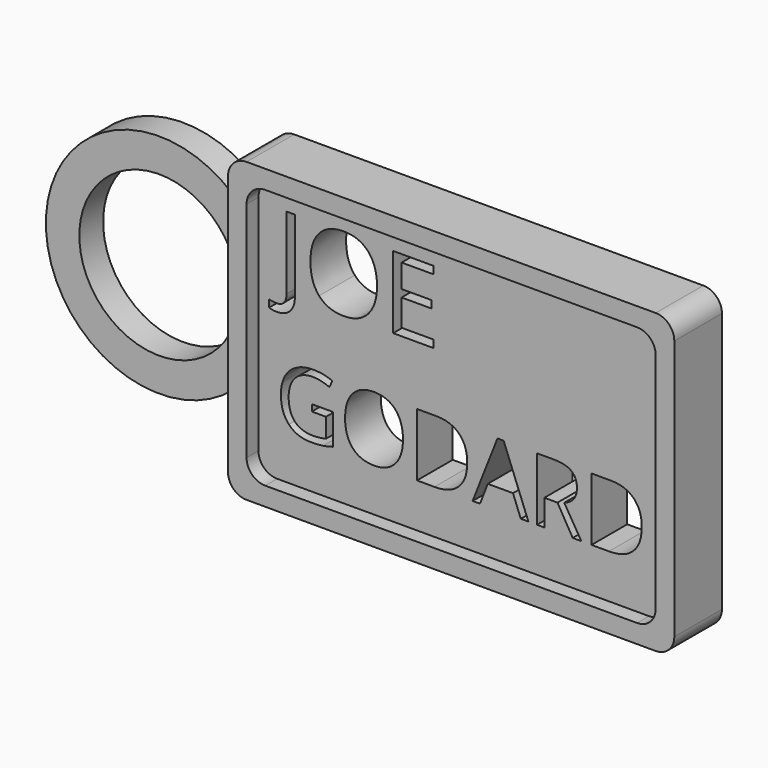
from build123d import *

# Parameters (mm, degrees)
F1_DEPTH = 20.32
F2_DEPTH = 15.24
F0_R     = 27.2915133995
F3_DEPTH = 10.16


with BuildPart() as f1:
    # F0 (on Front) → F1 (new body)
    with BuildSketch(Plane.XZ):
        with BuildLine():
            ThreePointArc((0, 6.35), (1.8598719395, 1.8598719395), (6.35, 0))
            Line((6.35, 0), (146.05, 0))
            ThreePointArc((146.05, 0), (150.5401280605, 1.8598719395), (152.4, 6.35))
            Line((152.4, 6.35), (152.4, 95.25))
            ThreePointArc((152.4, 95.25), (150.5401280605, 99.7401280605), (146.05, 101.6))
            Line((146.05, 101.6), (6.35, 101.6))
            ThreePointArc((6.35, 101.6), (1.8598719395, 99.7401280605), (0, 95.25))
            Line((0, 95.25), (0, 76.4830120565))
            Line((0, 76.4830120565), (0, 31.7811063765))
            Line((0, 31.7811063765), (0, 6.35))
        make_face()
        with BuildLine():
            ThreePointArc((6.35, 88.9), (8.2098719395, 93.3901280605), (12.7, 95.25))
            Line((12.7, 95.25), (139.7, 95.25))
            ThreePointArc((139.7, 95.25), (144.1901280605, 93.3901280605), (146.05, 88.9))
            Line((146.05, 88.9), (146.05, 12.7))
            ThreePointArc((146.05, 12.7), (144.1901280605, 8.2098719395), (139.7, 6.35))
            Line((139.7, 6.35), (12.7, 6.35))
            ThreePointArc((12.7, 6.35), (8.2098719395, 8.2098719395), (6.35, 12.7))
            Line((6.35, 12.7), (6.35, 88.9))
        make_face(mode=Mode.SUBTRACT)
    extrude(amount=F1_DEPTH)

    # F0 (on Front) → F2 (join)
    with BuildSketch(Plane.XZ):
        with BuildLine():
            Line((139.7, 95.25), (12.7, 95.25))
            ThreePointArc((12.7, 95.25), (8.2098719395, 93.3901280605), (6.35, 88.9))
            Line((6.35, 88.9), (6.35, 12.7))
            ThreePointArc((6.35, 12.7), (8.2098719395, 8.2098719395), (12.7, 6.35))
            Line((12.7, 6.35), (139.7, 6.35))
            ThreePointArc((139.7, 6.35), (144.1901280605, 8.2098719395), (146.05, 12.7))
            Line((146.05, 12.7), (146.05, 88.9))
            ThreePointArc((146.05, 88.9), (144.1901280605, 93.3901280605), (139.7, 95.25))
        make_face()
        with BuildLine():
            Line((24.5773977576, 30.4042935003), (24.5773977576, 32.6381390844))
            Line((24.5773977576, 32.6381390844), (31.8808971096, 32.6381390844))
            Line((31.8808971096, 32.6381390844), (31.8808971096, 22.1884445834))
            add(Edge.make_bspline(
                [(31.8808971096, 22.1884445834), (30.1737688, 21.6429159776), (28.4102064967, 21.3630974255)],
                knots=[0, 0, 0, 1, 1, 1], degree=2))
            add(Edge.make_bspline(
                [(28.4102064967, 21.3630974255), (26.6466441934, 21.0832788733), (24.3234447859, 21.0832788733)],
                knots=[0, 0, 0, 1, 1, 1], degree=2))
            add(Edge.make_bspline(
                [(24.3234447859, 21.0832788733), (19.4466071633, 21.0832788733), (16.7283697998, 23.9872781327)],
                knots=[0, 0, 0, 1, 1, 1], degree=2))
            add(Edge.make_bspline(
                [(16.7283697998, 23.9872781327), (14.0101324364, 26.8912773921), (14.0101324364, 32.1208274754)],
                knots=[0, 0, 0, 1, 1, 1], degree=2))
            add(Edge.make_bspline(
                [(14.0101324364, 32.1208274754), (14.0101324364, 35.4739472681), (15.3551426197, 37.9946656536)],
                knots=[0, 0, 0, 1, 1, 1], degree=2))
            add(Edge.make_bspline(
                [(15.3551426197, 37.9946656536), (16.700152803, 40.515384039), (19.2279254377, 41.8439343075)],
                knots=[0, 0, 0, 1, 1, 1], degree=2))
            add(Edge.make_bspline(
                [(19.2279254377, 41.8439343075), (21.7556980724, 43.172484576), (25.1464405275, 43.172484576)],
                knots=[0, 0, 0, 1, 1, 1], degree=2))
            add(Edge.make_bspline(
                [(25.1464405275, 43.172484576), (28.5889141435, 43.172484576), (31.5564016458, 41.9121253832)],
                knots=[0, 0, 0, 1, 1, 1], degree=2))
            Line((31.5564016458, 41.9121253832), (30.5876180872, 39.7064967959))
            add(Edge.make_bspline(
                [(30.5876180872, 39.7064967959), (27.6765645786, 40.9386389918), (24.986544212, 40.9386389918)],
                knots=[0, 0, 0, 1, 1, 1], degree=2))
            add(Edge.make_bspline(
                [(24.986544212, 40.9386389918), (21.0643816495, 40.9386389918), (18.8587530622, 38.6036825023)],
                knots=[0, 0, 0, 1, 1, 1], degree=2))
            add(Edge.make_bspline(
                [(18.8587530622, 38.6036825023), (16.6531244749, 36.2687260128), (16.6531244749, 32.1208274754)],
                knots=[0, 0, 0, 1, 1, 1], degree=2))
            add(Edge.make_bspline(
                [(16.6531244749, 32.1208274754), (16.6531244749, 27.7707071274), (18.776453488, 25.5227530448)],
                knots=[0, 0, 0, 1, 1, 1], degree=2))
            add(Edge.make_bspline(
                [(18.776453488, 25.5227530448), (20.8997825012, 23.2747989622), (25.0147612088, 23.2747989622)],
                knots=[0, 0, 0, 1, 1, 1], degree=2))
            add(Edge.make_bspline(
                [(25.0147612088, 23.2747989622), (27.248606793, 23.2747989622), (29.3789900553, 23.7921105712)],
                knots=[0, 0, 0, 1, 1, 1], degree=2))
            Line((29.3789900553, 23.7921105712), (29.3789900553, 30.4042935003))
            Line((29.3789900553, 30.4042935003), (24.5773977576, 30.4042935003))
        make_face(mode=Mode.SUBTRACT)
        with BuildLine():
            add(Edge.make_bspline(
                [(53.0859702442, 40.2661339002), (55.6866367874, 37.3268633947), (55.6866367874, 32.1537473051)],
                knots=[0, 0, 0, 1, 1, 1], degree=2))
            add(Edge.make_bspline(
                [(55.6866367874, 32.1537473051), (55.6866367874, 26.9947397139), (53.0765645786, 24.0390092936)],
                knots=[0, 0, 0, 1, 1, 1], degree=2))
            add(Edge.make_bspline(
                [(53.0765645786, 24.0390092936), (50.4664923697, 21.0832788733), (45.8247963875, 21.0832788733)],
                knots=[0, 0, 0, 1, 1, 1], degree=2))
            add(Edge.make_bspline(
                [(45.8247963875, 21.0832788733), (41.0796380835, 21.0832788733), (38.5001342879, 23.9872781327)],
                knots=[0, 0, 0, 1, 1, 1], degree=2))
            add(Edge.make_bspline(
                [(38.5001342879, 23.9872781327), (35.9206304923, 26.8912773921), (35.9206304923, 32.181964302)],
                knots=[0, 0, 0, 1, 1, 1], degree=2))
            add(Edge.make_bspline(
                [(35.9206304923, 32.181964302), (35.9206304923, 37.4303257165), (38.5071885371, 40.3178650611)],
                knots=[0, 0, 0, 1, 1, 1], degree=2))
            add(Edge.make_bspline(
                [(38.5071885371, 40.3178650611), (41.0937465819, 43.2054044056), (45.8530133843, 43.2054044056)],
                knots=[0, 0, 0, 1, 1, 1], degree=2))
            add(Edge.make_bspline(
                [(45.8530133843, 43.2054044056), (50.4853037009, 43.2054044056), (53.0859702442, 40.2661339002)],
                knots=[0, 0, 0, 1, 1, 1], degree=2))
        make_face(mode=Mode.SUBTRACT)
        with BuildLine():
            add(Edge.make_bspline(
                [(74.8483290666, 40.0897776699), (77.6253518402, 37.3127548963), (77.6253518402, 32.327752119)],
                knots=[0, 0, 0, 1, 1, 1], degree=2))
            add(Edge.make_bspline(
                [(77.6253518402, 32.327752119), (77.6253518402, 27.0088482123), (74.7378124956, 24.1942027763)],
                knots=[0, 0, 0, 1, 1, 1], degree=2))
            add(Edge.make_bspline(
                [(74.7378124956, 24.1942027763), (71.850273151, 21.3795573403), (66.4279069226, 21.3795573403)],
                knots=[0, 0, 0, 1, 1, 1], degree=2))
            Line((66.4279069226, 21.3795573403), (60.4741205867, 21.3795573403))
            Line((60.4741205867, 21.3795573403), (60.4741205867, 42.8668004434))
            Line((60.4741205867, 42.8668004434), (67.0580865189, 42.8668004434))
            add(Edge.make_bspline(
                [(67.0580865189, 42.8668004434), (72.0713062931, 42.8668004434), (74.8483290666, 40.0897776699)],
                knots=[0, 0, 0, 1, 1, 1], degree=2))
        make_face(mode=Mode.SUBTRACT)
        Polygon((98.5106323438, 21.3795573403), (95.924074299, 21.3795573403), (93.2481624308, 28.2127734114), (84.637275558, 28.2127734114), (81.9942835195, 21.3795573403), (79.4641594684, 21.3795573403), (87.957475521, 42.9561542668), (90.0596417865, 42.9561542668), align=None, mode=Mode.SUBTRACT)
        with BuildLine():
            Line((108.4477180687, 30.3149396769), (103.9612155691, 30.3149396769))
            Line((103.9612155691, 30.3149396769), (103.9612155691, 21.3795573403))
            Line((103.9612155691, 21.3795573403), (101.4640113477, 21.3795573403))
            Line((101.4640113477, 21.3795573403), (101.4640113477, 42.8668004434))
            Line((101.4640113477, 42.8668004434), (107.356660857, 42.8668004434))
            add(Edge.make_bspline(
                [(107.356660857, 42.8668004434), (111.3117432492, 42.8668004434), (113.1999306219, 41.352488279)],
                knots=[0, 0, 0, 1, 1, 1], degree=2))
            add(Edge.make_bspline(
                [(113.1999306219, 41.352488279), (115.0881179946, 39.8381761146), (115.0881179946, 36.7954432873)],
                knots=[0, 0, 0, 1, 1, 1], degree=2))
            add(Edge.make_bspline(
                [(115.0881179946, 36.7954432873), (115.0881179946, 32.5346767626), (110.7662146434, 31.0344730966)],
                knots=[0, 0, 0, 1, 1, 1], degree=2))
            Line((110.7662146434, 31.0344730966), (116.602430159, 21.3795573403))
            Line((116.602430159, 21.3795573403), (113.6490511551, 21.3795573403))
            Line((113.6490511551, 21.3795573403), (108.4477180687, 30.3149396769))
        make_face(mode=Mode.SUBTRACT)
        with BuildLine():
            add(Edge.make_bspline(
                [(134.442626419, 40.0897776699), (137.2196491925, 37.3127548963), (137.2196491925, 32.327752119)],
                knots=[0, 0, 0, 1, 1, 1], degree=2))
            add(Edge.make_bspline(
                [(137.2196491925, 32.327752119), (137.2196491925, 27.0088482123), (134.332109848, 24.1942027763)],
                knots=[0, 0, 0, 1, 1, 1], degree=2))
            add(Edge.make_bspline(
                [(134.332109848, 24.1942027763), (131.4445705034, 21.3795573403), (126.0222042749, 21.3795573403)],
                knots=[0, 0, 0, 1, 1, 1], degree=2))
            Line((126.0222042749, 21.3795573403), (120.0684179391, 21.3795573403))
            Line((120.0684179391, 21.3795573403), (120.0684179391, 42.8668004434))
            Line((120.0684179391, 42.8668004434), (126.6523838713, 42.8668004434))
            add(Edge.make_bspline(
                [(126.6523838713, 42.8668004434), (131.6656036454, 42.8668004434), (134.442626419, 40.0897776699)],
                knots=[0, 0, 0, 1, 1, 1], degree=2))
        make_face(mode=Mode.SUBTRACT)
        with BuildLine():
            add(Edge.make_bspline(
                [(17.1895407936, 58.2547495158), (15.5662232331, 56.4880389041), (12.5197972779, 56.4880389041)],
                knots=[0, 0, 0, 1, 1, 1], degree=2))
            add(Edge.make_bspline(
                [(12.5197972779, 56.4880389041), (10.9343571271, 56.4880389041), (10.0198882347, 56.942567821)],
                knots=[0, 0, 0, 1, 1, 1], degree=2))
            Line((10.0198882347, 56.942567821), (10.0198882347, 59.3937773374))
            add(Edge.make_bspline(
                [(10.0198882347, 59.3937773374), (11.2211432295, 59.0582917082), (12.5197972779, 59.0582917082)],
                knots=[0, 0, 0, 1, 1, 1], degree=2))
            add(Edge.make_bspline(
                [(12.5197972779, 59.0582917082), (14.1972254237, 59.0582917082), (15.0684058479, 60.0728651835)],
                knots=[0, 0, 0, 1, 1, 1], degree=2))
            add(Edge.make_bspline(
                [(15.0684058479, 60.0728651835), (15.939586272, 61.0874386588), (15.939586272, 62.9975423217)],
                knots=[0, 0, 0, 1, 1, 1], degree=2))
            Line((15.939586272, 62.9975423217), (15.939586272, 87.720668768))
            Line((15.939586272, 87.720668768), (18.8128583541, 87.720668768))
            Line((18.8128583541, 87.720668768), (18.8128583541, 63.2356288972))
            add(Edge.make_bspline(
                [(18.8128583541, 63.2356288972), (18.8128583541, 60.0214601274), (17.1895407936, 58.2547495158)],
                knots=[0, 0, 0, 1, 1, 1], degree=2))
        make_face(mode=Mode.SUBTRACT)
        with BuildLine():
            add(Edge.make_bspline(
                [(43.8390040783, 84.7283533981), (46.8313194482, 81.3464418138), (46.8313194482, 75.3942774253)],
                knots=[0, 0, 0, 1, 1, 1], degree=2))
            add(Edge.make_bspline(
                [(46.8313194482, 75.3942774253), (46.8313194482, 69.4583462124), (43.8281819612, 66.0574959232)],
                knots=[0, 0, 0, 1, 1, 1], degree=2))
            add(Edge.make_bspline(
                [(43.8281819612, 66.0574959232), (40.8250444743, 62.656645634), (35.4843297003, 62.656645634)],
                knots=[0, 0, 0, 1, 1, 1], degree=2))
            add(Edge.make_bspline(
                [(35.4843297003, 62.656645634), (30.0245716385, 62.656645634), (27.0566060321, 65.9979742793)],
                knots=[0, 0, 0, 1, 1, 1], degree=2))
            add(Edge.make_bspline(
                [(27.0566060321, 65.9979742793), (24.0886404257, 69.3393029247), (24.0886404257, 75.4267437765)],
                knots=[0, 0, 0, 1, 1, 1], degree=2))
            add(Edge.make_bspline(
                [(24.0886404257, 75.4267437765), (24.0886404257, 81.4654851015), (27.0647226199, 84.787875042)],
                knots=[0, 0, 0, 1, 1, 1], degree=2))
            add(Edge.make_bspline(
                [(27.0647226199, 84.787875042), (30.0408048141, 88.1102649825), (35.5167960515, 88.1102649825)],
                knots=[0, 0, 0, 1, 1, 1], degree=2))
            add(Edge.make_bspline(
                [(35.5167960515, 88.1102649825), (40.8466887085, 88.1102649825), (43.8390040783, 84.7283533981)],
                knots=[0, 0, 0, 1, 1, 1], degree=2))
        make_face(mode=Mode.SUBTRACT)
        Polygon((66.1217431253, 65.5677951258), (66.1217431253, 62.9975423217), (52.3397770368, 62.9975423217), (52.3397770368, 87.720668768), (66.1217431253, 87.720668768), (66.1217431253, 85.1666491395), (55.2130491188, 85.1666491395), (55.2130491188, 77.201570976), (65.4615939841, 77.201570976), (65.4615939841, 74.6637845231), (55.2130491188, 74.6637845231), (55.2130491188, 65.5677951258), align=None, mode=Mode.SUBTRACT)
    extrude(amount=F2_DEPTH)

    # F0 (on Front) → F3 (join)
    with BuildSketch(Plane.XZ):
        with BuildLine():
            ThreePointArc((0, 76.4830120565), (-70.3092045361, 54.1320592165), (0, 31.7811063765))
            Line((0, 31.7811063765), (0, 76.4830120565))
        make_face()
        with Locations((-31.601972878, 54.1320592165)):
            Circle(F0_R, mode=Mode.SUBTRACT)
    extrude(amount=F3_DEPTH)


solid = f1.part
